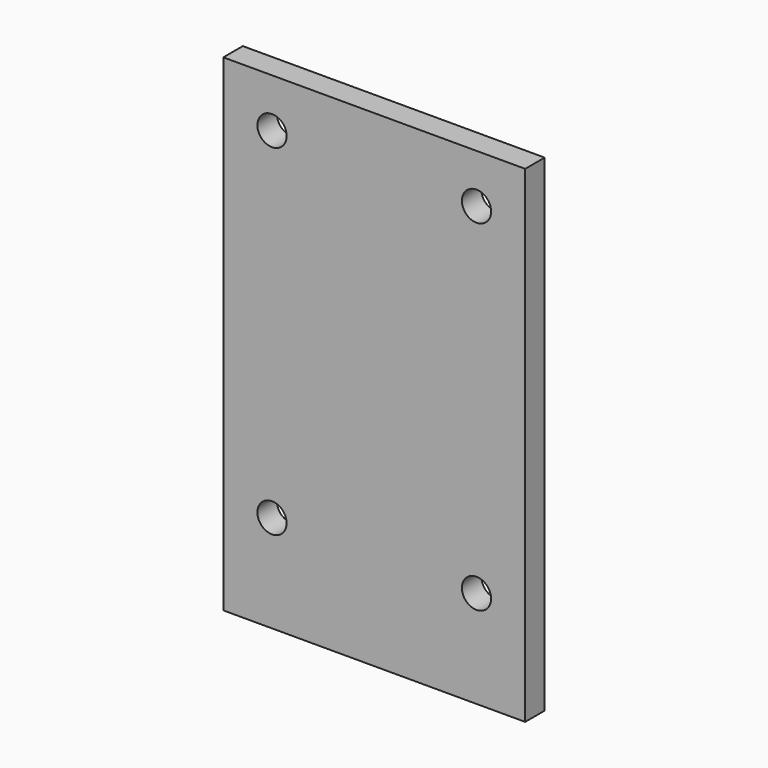
from build123d import *

# Parameters (mm, degrees)
F0_W     = 62
F0_H     = 100
F1_DEPTH = 5
F2_R     = 3
F3_DEPTH = 5.001


with BuildPart() as f1:
    # F0 (on Front) → F1 (new body)
    with BuildSketch(Plane.XZ):
        with Locations((31, 50)):
            Rectangle(F0_W, F0_H)
    extrude(amount=F1_DEPTH)

    # F2 (on face) → F3 (cut, through all)
    with BuildSketch(Plane.XZ.offset(5)):
        with Locations((10, 90)):
            Circle(F2_R)
        with Locations((52, 90)):
            Circle(F2_R)
        with Locations((10, 20)):
            Circle(F2_R)
        with Locations((52, 20)):
            Circle(F2_R)
    extrude(amount=-F3_DEPTH, mode=Mode.SUBTRACT)


solid = f1.part
